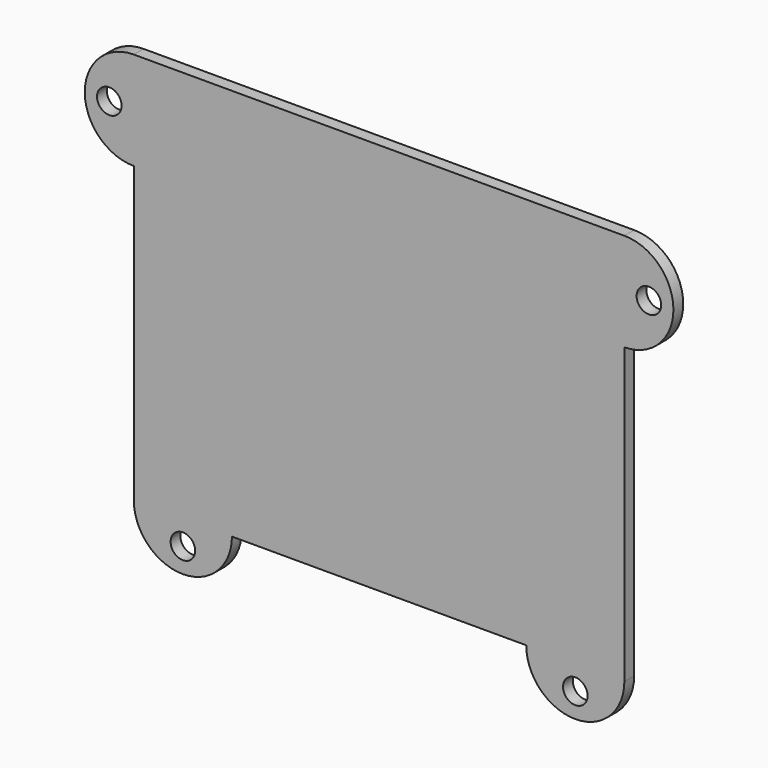
from build123d import *

# Parameters (mm, degrees)
F0_R     = 3.175
F1_DEPTH = 3.175


with BuildPart() as f1:
    # F0 (on Front) → F1 (new body)
    with BuildSketch(Plane.XZ):
        with BuildLine():
            Line((-63.5, 25.4), (-63.5, 50.8))
            ThreePointArc((-63.5, 50.8), (-76.2, 38.1), (-63.5, 25.4))
        make_face()
        with Locations((-69.85, 38.1)):
            Circle(F0_R, mode=Mode.SUBTRACT)
        Polygon((63.5, 50.8), (-63.5, 50.8), (-63.5, 25.4), (-63.5, -50.8), (-38.1, -50.8), (38.1, -50.8), (63.5, -50.8), (63.5, 25.4), align=None)
        with BuildLine():
            ThreePointArc((63.5, 25.4), (76.2, 38.1), (63.5, 50.8))
            Line((63.5, 50.8), (63.5, 25.4))
        make_face()
        with Locations((69.85, 38.1)):
            Circle(F0_R, mode=Mode.SUBTRACT)
        with BuildLine():
            ThreePointArc((38.1, -50.8), (50.8, -63.5), (63.5, -50.8))
            Line((63.5, -50.8), (38.1, -50.8))
        make_face()
        with Locations((50.8, -57.15)):
            Circle(F0_R, mode=Mode.SUBTRACT)
        with BuildLine():
            Line((-38.1, -50.8), (-63.5, -50.8))
            ThreePointArc((-63.5, -50.8), (-50.8, -63.5), (-38.1, -50.8))
        make_face()
        with Locations((-50.8, -57.15)):
            Circle(F0_R, mode=Mode.SUBTRACT)
    extrude(amount=F1_DEPTH)


solid = f1.part
